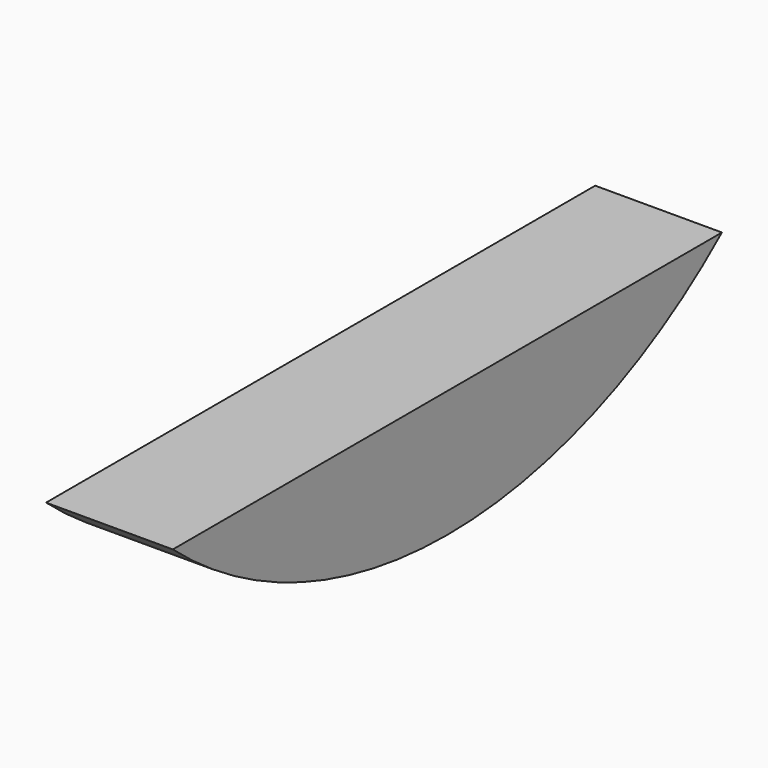
from build123d import *

# Parameters (mm, degrees)
BOX004_W          = 0.3
BOX004_H          = 3
BOX004_DEPTH      = 2
CYLINDER001_W     = 1.25
CYLINDER001_H     = 0.3
CYLINDER001_ANGLE = 180


with BuildPart() as cube001:
    # Box004 → Box004 (new body)
    with BuildSketch(Plane(origin=(6.7, 1.5, 1.1), x_dir=(1, 0, 0), z_dir=(0, 0, 1))):
        with Locations((0.15, 1.5)):
            Rectangle(BOX004_W, BOX004_H)
    extrude(amount=BOX004_DEPTH)


with BuildPart() as cut002:
    # Cylinder001 → Cylinder001 (revolve)
    with BuildSketch(Plane(origin=(6.7, 3.1, 2.05), x_dir=(0, -1, 0), z_dir=(0, 0, 1))):
        with Locations((0.625, 0.15)):
            Rectangle(CYLINDER001_W, CYLINDER001_H)
    revolve(axis=Axis((6.7, 3.1, 2.05), (1, 0, 0)), revolution_arc=CYLINDER001_ANGLE)

    # Cut002: cut Cube001
    add(cube001.part, mode=Mode.SUBTRACT)


with BuildPart() as part_mirroring:
    # Part__Mirroring: instance of Cut002
    add(cut002.part.mirror(Plane(origin=(0, 0, 0), x_dir=(1, 0, 0), z_dir=(0, 1, 0))))


with BuildPart() as part_mirroring002:
    # Part__Mirroring002: instance of Part__Mirroring
    add(part_mirroring.part.mirror(Plane(origin=(0, 0, 0), x_dir=(0, -1, 0), z_dir=(1, 0, 0))))


solid = part_mirroring002.part
